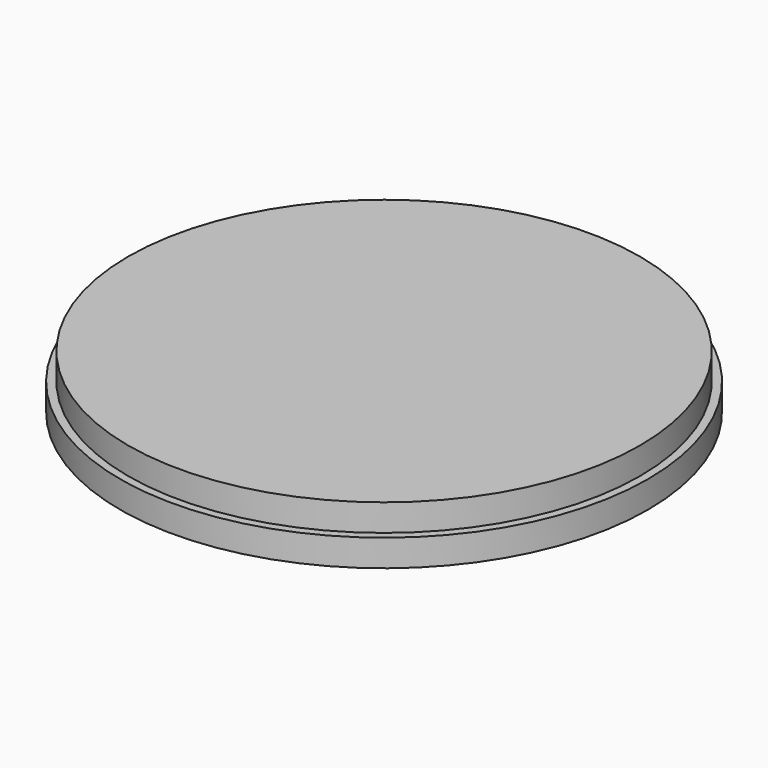
from build123d import *

# Parameters (mm, degrees)
SKETCH_R     = 49
PAD_DEPTH    = 5
SKETCH001_R  = 47.5
PAD001_DEPTH = 5


with BuildPart() as part:
    # Sketch → Pad (new body)
    with BuildSketch(Plane.XY):
        Circle(SKETCH_R)
    extrude(amount=PAD_DEPTH)

    # Sketch001 (on Face3 of Pad) → Pad001 (join)
    with BuildSketch(Plane.XY.offset(5)):
        Circle(SKETCH001_R)
    extrude(amount=PAD001_DEPTH)


solid = part.part
